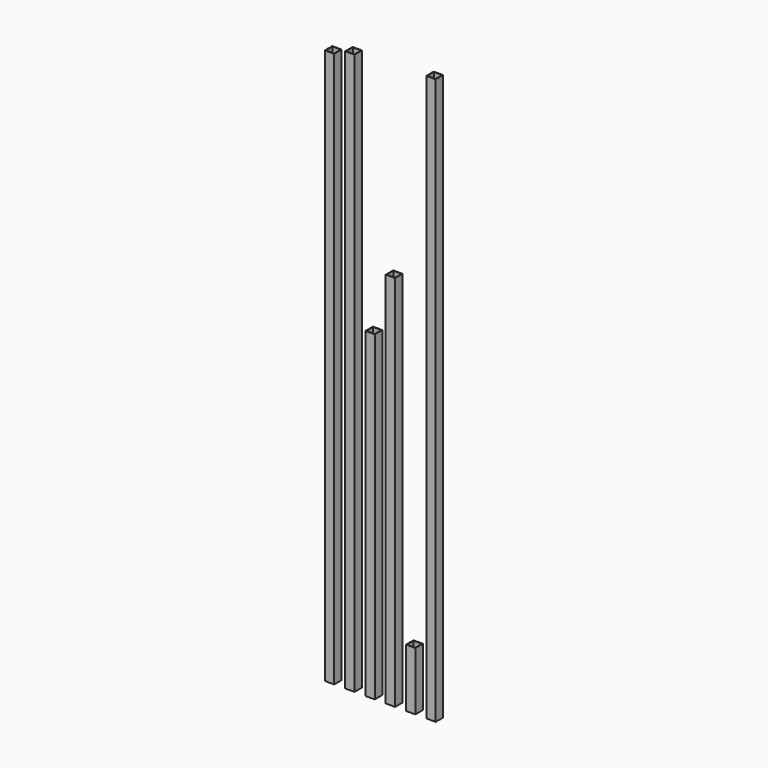
from build123d import *

# Parameters (mm, degrees)
F0_W     = 32
F0_H     = 32
F0_W_2   = 28.5
F0_H_2   = 28.5
F1_DEPTH = 1900
F2_DEPTH = 1920
F3_DEPTH = 1100
F4_DEPTH = 1292
F5_DEPTH = 200
F6_DEPTH = 1936


with BuildPart() as f1:
    # F0 (on Top) → F1 (new body)
    with BuildSketch(Plane.XY):
        Rectangle(F0_W, F0_H)
        Rectangle(F0_W_2, F0_H_2, mode=Mode.SUBTRACT)
    extrude(amount=F1_DEPTH)


with BuildPart() as f2:
    # F0 (on Top) → F2 (new body)
    with BuildSketch(Plane.XY):
        with Locations((69.4, 0)):
            Rectangle(F0_W, F0_H)
        with Locations((69.4, 0)):
            Rectangle(F0_W_2, F0_H_2, mode=Mode.SUBTRACT)
    extrude(amount=F2_DEPTH)


with BuildPart() as f3:
    # F0 (on Top) → F3 (new body)
    with BuildSketch(Plane.XY):
        with Locations((138.8, 0)):
            Rectangle(F0_W, F0_H)
        with Locations((138.8, 0)):
            Rectangle(F0_W_2, F0_H_2, mode=Mode.SUBTRACT)
    extrude(amount=F3_DEPTH)


with BuildPart() as f4:
    # F0 (on Top) → F4 (new body)
    with BuildSketch(Plane.XY):
        with Locations((208.2, 0)):
            Rectangle(F0_W, F0_H)
        with Locations((208.2, 0)):
            Rectangle(F0_W_2, F0_H_2, mode=Mode.SUBTRACT)
    extrude(amount=F4_DEPTH)


with BuildPart() as f5:
    # F0 (on Top) → F5 (new body)
    with BuildSketch(Plane.XY):
        with Locations((277.6, 0)):
            Rectangle(F0_W, F0_H)
        with Locations((277.6, 0)):
            Rectangle(F0_W_2, F0_H_2, mode=Mode.SUBTRACT)
    extrude(amount=F5_DEPTH)


with BuildPart() as f6:
    # F0 (on Top) → F6 (new body)
    with BuildSketch(Plane.XY):
        with Locations((347, 0)):
            Rectangle(F0_W, F0_H)
        with Locations((347, 0)):
            Rectangle(F0_W_2, F0_H_2, mode=Mode.SUBTRACT)
    extrude(amount=F6_DEPTH)


solid = Compound([f1.part, f2.part, f3.part, f4.part, f5.part, f6.part])
